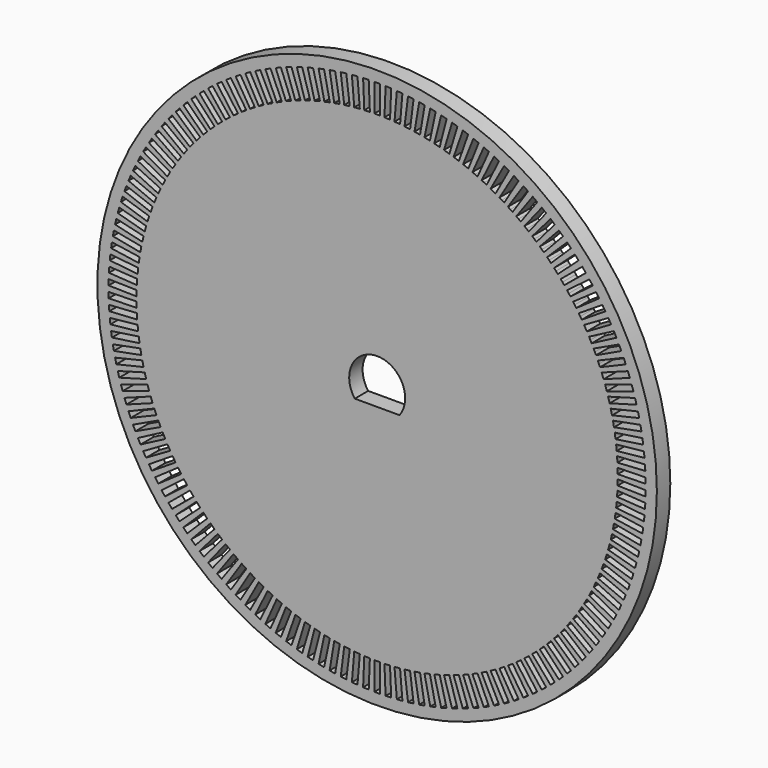
from build123d import *

# Parameters (mm, degrees)
F0_R     = 50
F1_DEPTH = 3


with BuildPart() as f1:
    # F0 (on Front) → F1 (new body)
    with BuildSketch(Plane.XZ):
        Circle(F0_R)
        Polygon((-23.795837, -35.815613), (-23.379376, -36.092309), (-26.146334, -40.256915), (-26.979255, -39.703524), (-24.212297, -35.538918), align=None, mode=Mode.SUBTRACT)
        Polygon((-30.722325, -30.085524), (-30.372494, -30.44276), (-33.944857, -33.941077), (-34.64452, -33.226604), (-31.072157, -29.728287), align=None, mode=Mode.SUBTRACT)
        Polygon((-28.097086, -32.550787), (-27.718588, -32.877498), (-30.985691, -36.662473), (-31.742687, -36.009052), (-28.475583, -32.224077), align=None, mode=Mode.SUBTRACT)
        Polygon((-26.709355, -33.698819), (-26.317508, -34.009393), (-29.423247, -37.92786), (-30.20694, -37.306712), (-27.101201, -33.388245), align=None, mode=Mode.SUBTRACT)
        Polygon((-25.274766, -34.787731), (-24.870257, -35.081623), (-27.809184, -39.126708), (-28.618201, -38.538923), (-25.679274, -34.493838), align=None, mode=Mode.SUBTRACT)
        Polygon((-29.435526, -31.345651), (-29.071041, -31.687925), (-32.493777, -35.332768), (-33.222745, -34.648221), (-29.80001, -31.003377), align=None, mode=Mode.SUBTRACT)
        Polygon((-33.132069, -27.409232), (-32.813357, -27.794488), (-36.665924, -30.981608), (-37.303348, -30.211095), (-33.450781, -27.023975), align=None, mode=Mode.SUBTRACT)
        Polygon((-31.955227, -28.772616), (-31.620662, -29.144188), (-35.336386, -32.489842), (-36.005517, -31.746697), (-32.289793, -28.401044), align=None, mode=Mode.SUBTRACT)
        Polygon((-34.250786, -25.997762), (-33.948487, -26.396027), (-37.931137, -29.419022), (-38.535736, -28.622493), (-34.553086, -25.599497), align=None, mode=Mode.SUBTRACT)
        Polygon((-35.309416, -24.540683), (-35.024059, -24.951258), (-39.129805, -27.804826), (-39.700519, -26.983677), (-35.594773, -24.130109), align=None, mode=Mode.SUBTRACT)
        Polygon((-19.119313, -38.515606), (-18.671457, -38.737923), (-20.894633, -43.216482), (-21.790344, -42.771847), (-19.567169, -38.293288), align=None, mode=Mode.SUBTRACT)
        Polygon((-20.715408, -37.681187), (-20.277255, -37.922064), (-22.686023, -42.303597), (-23.56233, -41.821844), (-21.153561, -37.44031), align=None, mode=Mode.SUBTRACT)
        Polygon((-22.275161, -36.780663), (-21.847479, -37.039677), (-24.437614, -41.316498), (-25.292979, -40.798471), (-22.702844, -36.52165), align=None, mode=Mode.SUBTRACT)
        Polygon((-15.829356, -39.980389), (-15.364468, -40.164451), (-17.20509, -44.813334), (-18.134867, -44.445209), (-16.294244, -39.796327), align=None, mode=Mode.SUBTRACT)
        Polygon((-17.489676, -39.282455), (-17.032903, -39.485823), (-19.066586, -44.05355), (-19.980132, -43.646814), (-17.946448, -39.079086), align=None, mode=Mode.SUBTRACT)
        Polygon((-14.141266, -40.608184), (-13.669078, -40.772617), (-15.313411, -45.494499), (-16.257787, -45.165632), (-14.613454, -40.443751), align=None, mode=Mode.SUBTRACT)
        Polygon((-12.428367, -41.164738), (-11.949708, -41.309254), (-13.394867, -46.095852), (-14.352186, -45.80682), (-12.907027, -41.020222), align=None, mode=Mode.SUBTRACT)
        Polygon((-10.693665, -41.649076), (-10.209374, -41.773421), (-11.452823, -46.616337), (-12.421406, -46.367647), (-11.177957, -41.524731), align=None, mode=Mode.SUBTRACT)
        Polygon((-8.940203, -42.060347), (-8.451129, -42.164303), (-9.490687, -47.055041), (-10.468835, -46.847129), (-9.429277, -41.956391), align=None, mode=Mode.SUBTRACT)
        Polygon((-7.171056, -42.39783), (-6.678058, -42.481214), (-7.511902, -47.411194), (-8.497898, -47.244425), (-7.664054, -42.314445), align=None, mode=Mode.SUBTRACT)
        Polygon((-3.598147, -42.849193), (-3.099901, -42.891032), (-3.51829, -47.873496), (-4.514783, -47.789818), (-4.096394, -42.807354), align=None, mode=Mode.SUBTRACT)
        Polygon((-5.389329, -42.660932), (-4.893272, -42.723599), (-5.519938, -47.684172), (-6.512053, -47.558839), (-5.885386, -42.598266), align=None, mode=Mode.SUBTRACT)
        Polygon((-1.800653, -42.962282), (-1.301092, -42.98322), (-1.51047, -47.978834), (-2.509593, -47.936958), (-2.300215, -42.941344), align=None, mode=Mode.SUBTRACT)
        Polygon((-36.306101, -23.040552), (-36.038187, -23.462716), (-40.259827, -26.14185), (-40.795654, -25.297522), (-36.574014, -22.618388), align=None, mode=Mode.SUBTRACT)
        Polygon((-37.239092, -21.5), (-36.989092, -21.933013), (-41.319219, -24.433013), (-41.819219, -23.566987), (-37.489092, -21.066987), align=None, mode=Mode.SUBTRACT)
        Polygon((-38.907563, -18.30851), (-38.694674, -18.760923), (-43.218809, -20.88982), (-43.644588, -19.984992), (-39.120453, -17.856096), align=None, mode=Mode.SUBTRACT)
        Polygon((-38.106754, -19.92173), (-37.875106, -20.364831), (-42.306124, -22.681311), (-42.76942, -21.795108), (-38.338402, -19.478628), align=None, mode=Mode.SUBTRACT)
        Polygon((-39.640116, -16.66317), (-39.446358, -17.124102), (-44.055673, -19.06168), (-44.443189, -18.139817), (-39.833873, -16.202239), align=None, mode=Mode.SUBTRACT)
        Polygon((-40.303126, -14.988598), (-40.12884, -15.457239), (-44.815249, -17.200099), (-45.163822, -16.262817), (-40.477412, -14.519957), align=None, mode=Mode.SUBTRACT)
        Polygon((-40.89543, -13.287731), (-40.740922, -13.763259), (-45.496204, -15.308344), (-45.805221, -14.357287), (-41.049939, -12.812202), align=None, mode=Mode.SUBTRACT)
        Polygon((-41.41599, -11.563552), (-41.28153, -12.045134), (-46.097343, -13.389733), (-46.366263, -12.42657), (-41.55045, -11.081971), align=None, mode=Mode.SUBTRACT)
        Polygon((-41.863893, -9.819087), (-41.749717, -10.305877), (-46.617612, -11.447631), (-46.845963, -10.474052), (-41.978068, -9.332298), align=None, mode=Mode.SUBTRACT)
        Polygon((-42.238352, -8.057397), (-42.144661, -8.54854), (-47.056097, -9.485447), (-47.243479, -8.503159), (-42.332042, -7.566253), align=None, mode=Mode.SUBTRACT)
        Polygon((-42.53871, -6.28157), (-42.465669, -6.776206), (-47.41203, -7.506622), (-47.558113, -6.517349), (-42.611752, -5.786934), align=None, mode=Mode.SUBTRACT)
        Polygon((-42.764442, -4.494724), (-42.712177, -4.991985), (-47.684787, -5.514627), (-47.789315, -4.520105), (-42.816706, -3.997463), align=None, mode=Mode.SUBTRACT)
        Polygon((-42.915149, -2.699992), (-42.883754, -3.199006), (-47.873888, -3.512958), (-47.936678, -2.514932), (-42.946545, -2.200979), align=None, mode=Mode.SUBTRACT)
        Polygon((-42.990569, -0.900524), (-42.980098, -1.400414), (-47.979002, -1.505126), (-47.999944, -0.505346), (-43.001041, -0.400634), align=None, mode=Mode.SUBTRACT)
        Polygon((0, -43), (0.5, -43), (0.5, -48), (-0.5, -48), (-0.5, -43), align=None, mode=Mode.SUBTRACT)
        Polygon((1.800653, -42.962282), (2.300215, -42.941344), (2.509593, -47.936958), (1.51047, -47.978834), (1.301092, -42.98322), align=None, mode=Mode.SUBTRACT)
        Polygon((3.598147, -42.849193), (4.096394, -42.807354), (4.514783, -47.789818), (3.51829, -47.873496), (3.099901, -42.891032), align=None, mode=Mode.SUBTRACT)
        Polygon((5.389329, -42.660932), (5.885386, -42.598266), (6.512053, -47.558839), (5.519938, -47.684172), (4.893272, -42.723599), align=None, mode=Mode.SUBTRACT)
        Polygon((7.171056, -42.39783), (7.664054, -42.314445), (8.497898, -47.244425), (7.511902, -47.411194), (6.678058, -42.481214), align=None, mode=Mode.SUBTRACT)
        Polygon((8.940203, -42.060347), (9.429277, -41.956391), (10.468835, -46.847129), (9.490687, -47.055041), (8.451129, -42.164303), align=None, mode=Mode.SUBTRACT)
        Polygon((10.693665, -41.649076), (11.177957, -41.524731), (12.421406, -46.367647), (11.452823, -46.616337), (10.209374, -41.773421), align=None, mode=Mode.SUBTRACT)
        Polygon((12.428367, -41.164738), (12.907027, -41.020222), (14.352186, -45.80682), (13.394867, -46.095852), (11.949708, -41.309254), align=None, mode=Mode.SUBTRACT)
        Polygon((14.141266, -40.608184), (14.613454, -40.443751), (16.257787, -45.165632), (15.313411, -45.494499), (13.669078, -40.772617), align=None, mode=Mode.SUBTRACT)
        Polygon((15.829356, -39.980389), (16.294244, -39.796327), (18.134867, -44.445209), (17.20509, -44.813334), (15.364468, -40.164451), align=None, mode=Mode.SUBTRACT)
        Polygon((17.489676, -39.282455), (17.946448, -39.079086), (19.980132, -43.646814), (19.066586, -44.05355), (17.032903, -39.485823), align=None, mode=Mode.SUBTRACT)
        Polygon((19.119313, -38.515606), (19.567169, -38.293288), (21.790344, -42.771847), (20.894633, -43.216482), (18.671457, -38.737923), align=None, mode=Mode.SUBTRACT)
        Polygon((20.715408, -37.681187), (21.153561, -37.44031), (23.56233, -41.821844), (22.686023, -42.303597), (20.277255, -37.922064), align=None, mode=Mode.SUBTRACT)
        Polygon((22.275161, -36.780663), (22.702844, -36.52165), (25.292979, -40.798471), (24.437614, -41.316498), (21.847479, -37.039677), align=None, mode=Mode.SUBTRACT)
        Polygon((23.795837, -35.815613), (24.212297, -35.538918), (26.979255, -39.703524), (26.146334, -40.256915), (23.379376, -36.092309), align=None, mode=Mode.SUBTRACT)
        Polygon((25.274766, -34.787731), (25.679274, -34.493838), (28.618201, -38.538923), (27.809184, -39.126708), (24.870257, -35.081623), align=None, mode=Mode.SUBTRACT)
        Polygon((26.709355, -33.698819), (27.101201, -33.388245), (30.20694, -37.306712), (29.423247, -37.92786), (26.317508, -34.009393), align=None, mode=Mode.SUBTRACT)
        Polygon((28.097086, -32.550787), (28.475583, -32.224077), (31.742687, -36.009052), (30.985691, -36.662473), (27.718588, -32.877498), align=None, mode=Mode.SUBTRACT)
        Polygon((29.435526, -31.345651), (29.80001, -31.003377), (33.222745, -34.648221), (32.493777, -35.332768), (29.071041, -31.687925), align=None, mode=Mode.SUBTRACT)
        Polygon((30.722325, -30.085524), (31.072157, -29.728287), (34.64452, -33.226604), (33.944857, -33.941077), (30.372494, -30.44276), align=None, mode=Mode.SUBTRACT)
        Polygon((31.955227, -28.772616), (32.289793, -28.401044), (36.005517, -31.746697), (35.336386, -32.489842), (31.620662, -29.144188), align=None, mode=Mode.SUBTRACT)
        Polygon((33.132069, -27.409232), (33.450781, -27.023975), (37.303348, -30.211095), (36.665924, -30.981608), (32.813357, -27.794488), align=None, mode=Mode.SUBTRACT)
        Polygon((34.250786, -25.997762), (34.553086, -25.599497), (38.535736, -28.622493), (37.931137, -29.419022), (33.948487, -26.396027), align=None, mode=Mode.SUBTRACT)
        Polygon((35.309416, -24.540683), (35.594773, -24.130109), (39.700519, -26.983677), (39.129805, -27.804826), (35.024059, -24.951258), align=None, mode=Mode.SUBTRACT)
        Polygon((36.306101, -23.040552), (36.574014, -22.618388), (40.795654, -25.297522), (40.259827, -26.14185), (36.038187, -23.462716), align=None, mode=Mode.SUBTRACT)
        Polygon((37.239092, -21.5), (37.489092, -21.066987), (41.819219, -23.566987), (41.319219, -24.433013), (36.989092, -21.933013), align=None, mode=Mode.SUBTRACT)
        Polygon((38.106754, -19.92173), (38.338402, -19.478628), (42.76942, -21.795108), (42.306124, -22.681311), (37.875106, -20.364831), align=None, mode=Mode.SUBTRACT)
        Polygon((38.907563, -18.30851), (39.120453, -17.856096), (43.644588, -19.984992), (43.218809, -20.88982), (38.694674, -18.760923), align=None, mode=Mode.SUBTRACT)
        Polygon((39.640116, -16.66317), (39.833873, -16.202239), (44.443189, -18.139817), (44.055673, -19.06168), (39.446358, -17.124102), align=None, mode=Mode.SUBTRACT)
        Polygon((40.303126, -14.988598), (40.477412, -14.519957), (45.163822, -16.262817), (44.815249, -17.200099), (40.12884, -15.457239), align=None, mode=Mode.SUBTRACT)
        Polygon((40.89543, -13.287731), (41.049939, -12.812202), (45.805221, -14.357287), (45.496204, -15.308344), (40.740922, -13.763259), align=None, mode=Mode.SUBTRACT)
        Polygon((41.41599, -11.563552), (41.55045, -11.081971), (46.366263, -12.42657), (46.097343, -13.389733), (41.28153, -12.045134), align=None, mode=Mode.SUBTRACT)
        Polygon((41.863893, -9.819087), (41.978068, -9.332298), (46.845963, -10.474052), (46.617612, -11.447631), (41.749717, -10.305877), align=None, mode=Mode.SUBTRACT)
        Polygon((42.238352, -8.057397), (42.332042, -7.566253), (47.243479, -8.503159), (47.056097, -9.485447), (42.144661, -8.54854), align=None, mode=Mode.SUBTRACT)
        Polygon((42.53871, -6.28157), (42.611752, -5.786934), (47.558113, -6.517349), (47.41203, -7.506622), (42.465669, -6.776206), align=None, mode=Mode.SUBTRACT)
        Polygon((42.764442, -4.494724), (42.816706, -3.997463), (47.789315, -4.520105), (47.684787, -5.514627), (42.712177, -4.991985), align=None, mode=Mode.SUBTRACT)
        Polygon((42.915149, -2.699992), (42.946545, -2.200979), (47.936678, -2.514932), (47.873888, -3.512958), (42.883754, -3.199006), align=None, mode=Mode.SUBTRACT)
        Polygon((42.990569, -0.900524), (43.001041, -0.400634), (47.999944, -0.505346), (47.979002, -1.505126), (42.980098, -1.400414), align=None, mode=Mode.SUBTRACT)
        Polygon((-42.990569, 0.900524), (-43.001041, 0.400634), (-47.999944, 0.505346), (-47.979002, 1.505126), (-42.980098, 1.400414), align=None, mode=Mode.SUBTRACT)
        Polygon((-42.915149, 2.699992), (-42.946545, 2.200979), (-47.936678, 2.514932), (-47.873888, 3.512958), (-42.883754, 3.199006), align=None, mode=Mode.SUBTRACT)
        Polygon((-42.764442, 4.494724), (-42.816706, 3.997463), (-47.789315, 4.520105), (-47.684787, 5.514627), (-42.712177, 4.991985), align=None, mode=Mode.SUBTRACT)
        Polygon((-42.53871, 6.28157), (-42.611752, 5.786934), (-47.558113, 6.517349), (-47.41203, 7.506622), (-42.465669, 6.776206), align=None, mode=Mode.SUBTRACT)
        Polygon((-42.238352, 8.057397), (-42.332042, 7.566253), (-47.243479, 8.503159), (-47.056097, 9.485447), (-42.144661, 8.54854), align=None, mode=Mode.SUBTRACT)
        Polygon((-41.863893, 9.819087), (-41.978068, 9.332298), (-46.845963, 10.474052), (-46.617612, 11.447631), (-41.749717, 10.305877), align=None, mode=Mode.SUBTRACT)
        Polygon((-41.41599, 11.563552), (-41.55045, 11.081971), (-46.366263, 12.42657), (-46.097343, 13.389733), (-41.28153, 12.045134), align=None, mode=Mode.SUBTRACT)
        Polygon((-40.89543, 13.287731), (-41.049939, 12.812202), (-45.805221, 14.357287), (-45.496204, 15.308344), (-40.740922, 13.763259), align=None, mode=Mode.SUBTRACT)
        Polygon((-40.303126, 14.988598), (-40.477412, 14.519957), (-45.163822, 16.262817), (-44.815249, 17.200099), (-40.12884, 15.457239), align=None, mode=Mode.SUBTRACT)
        Polygon((-39.640116, 16.66317), (-39.833873, 16.202239), (-44.443189, 18.139817), (-44.055673, 19.06168), (-39.446358, 17.124102), align=None, mode=Mode.SUBTRACT)
        Polygon((-38.907563, 18.30851), (-39.120453, 17.856096), (-43.644588, 19.984992), (-43.218809, 20.88982), (-38.694674, 18.760923), align=None, mode=Mode.SUBTRACT)
        Polygon((-38.106754, 19.92173), (-38.338402, 19.478628), (-42.76942, 21.795108), (-42.306124, 22.681311), (-37.875106, 20.364831), align=None, mode=Mode.SUBTRACT)
        Polygon((-37.239092, 21.5), (-37.489092, 21.066987), (-41.819219, 23.566987), (-41.319219, 24.433013), (-36.989092, 21.933013), align=None, mode=Mode.SUBTRACT)
        Polygon((-36.306101, 23.040552), (-36.574014, 22.618388), (-40.795654, 25.297522), (-40.259827, 26.14185), (-36.038187, 23.462716), align=None, mode=Mode.SUBTRACT)
        Polygon((-35.309416, 24.540683), (-35.594773, 24.130109), (-39.700519, 26.983677), (-39.129805, 27.804826), (-35.024059, 24.951258), align=None, mode=Mode.SUBTRACT)
        Polygon((-34.250786, 25.997762), (-34.553086, 25.599497), (-38.535736, 28.622493), (-37.931137, 29.419022), (-33.948487, 26.396027), align=None, mode=Mode.SUBTRACT)
        Polygon((-33.132069, 27.409232), (-33.450781, 27.023975), (-37.303348, 30.211095), (-36.665924, 30.981608), (-32.813357, 27.794488), align=None, mode=Mode.SUBTRACT)
        Polygon((-31.955227, 28.772616), (-32.289793, 28.401044), (-36.005517, 31.746697), (-35.336386, 32.489842), (-31.620662, 29.144188), align=None, mode=Mode.SUBTRACT)
        Polygon((-30.722325, 30.085524), (-31.072157, 29.728287), (-34.64452, 33.226604), (-33.944857, 33.941077), (-30.372494, 30.44276), align=None, mode=Mode.SUBTRACT)
        Polygon((-29.435526, 31.345651), (-29.80001, 31.003377), (-33.222745, 34.648221), (-32.493777, 35.332768), (-29.071041, 31.687925), align=None, mode=Mode.SUBTRACT)
        Polygon((-28.097086, 32.550787), (-28.475583, 32.224077), (-31.742687, 36.009052), (-30.985691, 36.662473), (-27.718588, 32.877498), align=None, mode=Mode.SUBTRACT)
        Polygon((-26.709355, 33.698819), (-27.101201, 33.388245), (-30.20694, 37.306712), (-29.423247, 37.92786), (-26.317508, 34.009393), align=None, mode=Mode.SUBTRACT)
        Polygon((-25.274766, 34.787731), (-25.679274, 34.493838), (-28.618201, 38.538923), (-27.809184, 39.126708), (-24.870257, 35.081623), align=None, mode=Mode.SUBTRACT)
        Polygon((-23.795837, 35.815613), (-24.212297, 35.538918), (-26.979255, 39.703524), (-26.146334, 40.256915), (-23.379376, 36.092309), align=None, mode=Mode.SUBTRACT)
        Polygon((-22.275161, 36.780663), (-22.702844, 36.52165), (-25.292979, 40.798471), (-24.437614, 41.316498), (-21.847479, 37.039677), align=None, mode=Mode.SUBTRACT)
        Polygon((-20.715408, 37.681187), (-21.153561, 37.44031), (-23.56233, 41.821844), (-22.686023, 42.303597), (-20.277255, 37.922064), align=None, mode=Mode.SUBTRACT)
        Polygon((-19.119313, 38.515606), (-19.567169, 38.293288), (-21.790344, 42.771847), (-20.894633, 43.216482), (-18.671457, 38.737923), align=None, mode=Mode.SUBTRACT)
        Polygon((-17.489676, 39.282455), (-17.946448, 39.079086), (-19.980132, 43.646814), (-19.066586, 44.05355), (-17.032903, 39.485823), align=None, mode=Mode.SUBTRACT)
        Polygon((-15.829356, 39.980389), (-16.294244, 39.796327), (-18.134867, 44.445209), (-17.20509, 44.813334), (-15.364468, 40.164451), align=None, mode=Mode.SUBTRACT)
        Polygon((-14.141266, 40.608184), (-14.613454, 40.443751), (-16.257787, 45.165632), (-15.313411, 45.494499), (-13.669078, 40.772617), align=None, mode=Mode.SUBTRACT)
        Polygon((-12.428367, 41.164738), (-12.907027, 41.020222), (-14.352186, 45.80682), (-13.394867, 46.095852), (-11.949708, 41.309254), align=None, mode=Mode.SUBTRACT)
        Polygon((-10.693665, 41.649076), (-11.177957, 41.524731), (-12.421406, 46.367647), (-11.452823, 46.616337), (-10.209374, 41.773421), align=None, mode=Mode.SUBTRACT)
        Polygon((-8.940203, 42.060347), (-9.429277, 41.956391), (-10.468835, 46.847129), (-9.490687, 47.055041), (-8.451129, 42.164303), align=None, mode=Mode.SUBTRACT)
        Polygon((-7.171056, 42.39783), (-7.664054, 42.314445), (-8.497898, 47.244425), (-7.511902, 47.411194), (-6.678058, 42.481214), align=None, mode=Mode.SUBTRACT)
        Polygon((-5.389329, 42.660932), (-5.885386, 42.598266), (-6.512053, 47.558839), (-5.519938, 47.684172), (-4.893272, 42.723599), align=None, mode=Mode.SUBTRACT)
        Polygon((-3.598147, 42.849193), (-4.096394, 42.807354), (-4.514783, 47.789818), (-3.51829, 47.873496), (-3.099901, 42.891032), align=None, mode=Mode.SUBTRACT)
        Polygon((-1.800653, 42.962282), (-2.300215, 42.941344), (-2.509593, 47.936958), (-1.51047, 47.978834), (-1.301092, 42.98322), align=None, mode=Mode.SUBTRACT)
        with BuildLine():
            ThreePointArc((-4, -3), (-4.472136, 2.236068), (0, 5))
            ThreePointArc((0, 5), (4.472136, 2.236068), (4, -3))
            Line((4, -3), (-4, -3))
        make_face(mode=Mode.SUBTRACT)
        Polygon((42.990569, 0.900524), (42.980098, 1.400414), (47.979002, 1.505126), (47.999944, 0.505346), (43.001041, 0.400634), align=None, mode=Mode.SUBTRACT)
        Polygon((42.915149, 2.699992), (42.883754, 3.199006), (47.873888, 3.512958), (47.936678, 2.514932), (42.946545, 2.200979), align=None, mode=Mode.SUBTRACT)
        Polygon((42.764442, 4.494724), (42.712177, 4.991985), (47.684787, 5.514627), (47.789315, 4.520105), (42.816706, 3.997463), align=None, mode=Mode.SUBTRACT)
        Polygon((42.53871, 6.28157), (42.465669, 6.776206), (47.41203, 7.506622), (47.558113, 6.517349), (42.611752, 5.786934), align=None, mode=Mode.SUBTRACT)
        Polygon((42.238352, 8.057397), (42.144661, 8.54854), (47.056097, 9.485447), (47.243479, 8.503159), (42.332042, 7.566253), align=None, mode=Mode.SUBTRACT)
        Polygon((41.863893, 9.819087), (41.749717, 10.305877), (46.617612, 11.447631), (46.845963, 10.474052), (41.978068, 9.332298), align=None, mode=Mode.SUBTRACT)
        Polygon((41.41599, 11.563552), (41.28153, 12.045134), (46.097343, 13.389733), (46.366263, 12.42657), (41.55045, 11.081971), align=None, mode=Mode.SUBTRACT)
        Polygon((40.89543, 13.287731), (40.740922, 13.763259), (45.496204, 15.308344), (45.805221, 14.357287), (41.049939, 12.812202), align=None, mode=Mode.SUBTRACT)
        Polygon((40.303126, 14.988598), (40.12884, 15.457239), (44.815249, 17.200099), (45.163822, 16.262817), (40.477412, 14.519957), align=None, mode=Mode.SUBTRACT)
        Polygon((39.640116, 16.66317), (39.446358, 17.124102), (44.055673, 19.06168), (44.443189, 18.139817), (39.833873, 16.202239), align=None, mode=Mode.SUBTRACT)
        Polygon((38.106754, 19.92173), (37.875106, 20.364831), (42.306124, 22.681311), (42.76942, 21.795108), (38.338402, 19.478628), align=None, mode=Mode.SUBTRACT)
        Polygon((38.907563, 18.30851), (38.694674, 18.760923), (43.218809, 20.88982), (43.644588, 19.984992), (39.120453, 17.856096), align=None, mode=Mode.SUBTRACT)
        Polygon((37.239092, 21.5), (36.989092, 21.933013), (41.319219, 24.433013), (41.819219, 23.566987), (37.489092, 21.066987), align=None, mode=Mode.SUBTRACT)
        Polygon((36.306101, 23.040552), (36.038187, 23.462716), (40.259827, 26.14185), (40.795654, 25.297522), (36.574014, 22.618388), align=None, mode=Mode.SUBTRACT)
        Polygon((0.5, 43), (0, 43), (-0.5, 43), (-0.5, 48), (0.5, 48), align=None, mode=Mode.SUBTRACT)
        Polygon((1.800653, 42.962282), (1.301092, 42.98322), (1.51047, 47.978834), (2.509593, 47.936958), (2.300215, 42.941344), align=None, mode=Mode.SUBTRACT)
        Polygon((5.389329, 42.660932), (4.893272, 42.723599), (5.519938, 47.684172), (6.512053, 47.558839), (5.885386, 42.598266), align=None, mode=Mode.SUBTRACT)
        Polygon((3.598147, 42.849193), (3.099901, 42.891032), (3.51829, 47.873496), (4.514783, 47.789818), (4.096394, 42.807354), align=None, mode=Mode.SUBTRACT)
        Polygon((7.171056, 42.39783), (6.678058, 42.481214), (7.511902, 47.411194), (8.497898, 47.244425), (7.664054, 42.314445), align=None, mode=Mode.SUBTRACT)
        Polygon((8.940203, 42.060347), (8.451129, 42.164303), (9.490687, 47.055041), (10.468835, 46.847129), (9.429277, 41.956391), align=None, mode=Mode.SUBTRACT)
        Polygon((10.693665, 41.649076), (10.209374, 41.773421), (11.452823, 46.616337), (12.421406, 46.367647), (11.177957, 41.524731), align=None, mode=Mode.SUBTRACT)
        Polygon((12.428367, 41.164738), (11.949708, 41.309254), (13.394867, 46.095852), (14.352186, 45.80682), (12.907027, 41.020222), align=None, mode=Mode.SUBTRACT)
        Polygon((14.141266, 40.608184), (13.669078, 40.772617), (15.313411, 45.494499), (16.257787, 45.165632), (14.613454, 40.443751), align=None, mode=Mode.SUBTRACT)
        Polygon((17.489676, 39.282455), (17.032903, 39.485823), (19.066586, 44.05355), (19.980132, 43.646814), (17.946448, 39.079086), align=None, mode=Mode.SUBTRACT)
        Polygon((15.829356, 39.980389), (15.364468, 40.164451), (17.20509, 44.813334), (18.134867, 44.445209), (16.294244, 39.796327), align=None, mode=Mode.SUBTRACT)
        Polygon((22.275161, 36.780663), (21.847479, 37.039677), (24.437614, 41.316498), (25.292979, 40.798471), (22.702844, 36.52165), align=None, mode=Mode.SUBTRACT)
        Polygon((20.715408, 37.681187), (20.277255, 37.922064), (22.686023, 42.303597), (23.56233, 41.821844), (21.153561, 37.44031), align=None, mode=Mode.SUBTRACT)
        Polygon((19.119313, 38.515606), (18.671457, 38.737923), (20.894633, 43.216482), (21.790344, 42.771847), (19.567169, 38.293288), align=None, mode=Mode.SUBTRACT)
        Polygon((35.309416, 24.540683), (35.024059, 24.951258), (39.129805, 27.804826), (39.700519, 26.983677), (35.594773, 24.130109), align=None, mode=Mode.SUBTRACT)
        Polygon((34.250786, 25.997762), (33.948487, 26.396027), (37.931137, 29.419022), (38.535736, 28.622493), (34.553086, 25.599497), align=None, mode=Mode.SUBTRACT)
        Polygon((31.955227, 28.772616), (31.620662, 29.144188), (35.336386, 32.489842), (36.005517, 31.746697), (32.289793, 28.401044), align=None, mode=Mode.SUBTRACT)
        Polygon((33.132069, 27.409232), (32.813357, 27.794488), (36.665924, 30.981608), (37.303348, 30.211095), (33.450781, 27.023975), align=None, mode=Mode.SUBTRACT)
        Polygon((29.435526, 31.345651), (29.071041, 31.687925), (32.493777, 35.332768), (33.222745, 34.648221), (29.80001, 31.003377), align=None, mode=Mode.SUBTRACT)
        Polygon((25.274766, 34.787731), (24.870257, 35.081623), (27.809184, 39.126708), (28.618201, 38.538923), (25.679274, 34.493838), align=None, mode=Mode.SUBTRACT)
        Polygon((26.709355, 33.698819), (26.317508, 34.009393), (29.423247, 37.92786), (30.20694, 37.306712), (27.101201, 33.388245), align=None, mode=Mode.SUBTRACT)
        Polygon((28.097086, 32.550787), (27.718588, 32.877498), (30.985691, 36.662473), (31.742687, 36.009052), (28.475583, 32.224077), align=None, mode=Mode.SUBTRACT)
        Polygon((30.722325, 30.085524), (30.372494, 30.44276), (33.944857, 33.941077), (34.64452, 33.226604), (31.072157, 29.728287), align=None, mode=Mode.SUBTRACT)
        Polygon((23.795837, 35.815613), (23.379376, 36.092309), (26.146334, 40.256915), (26.979255, 39.703524), (24.212297, 35.538918), align=None, mode=Mode.SUBTRACT)
    extrude(amount=F1_DEPTH)


solid = f1.part
